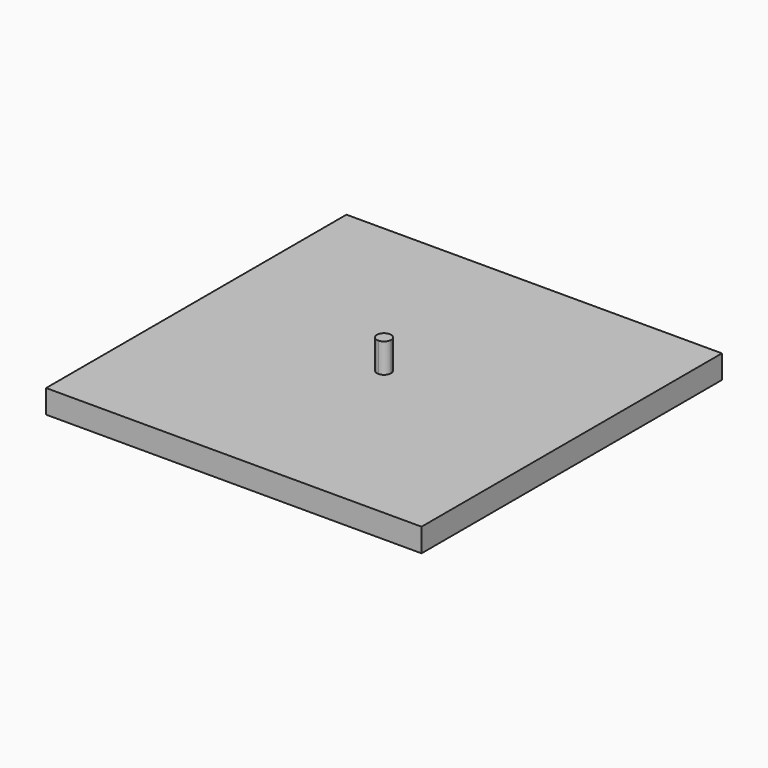
from build123d import *

# Parameters (mm, degrees)
F0_W     = 320
F0_H     = 320
F1_DEPTH = 20
F3_DEPTH = 25


with BuildPart() as f1:
    # F0 (on Top) → F1 (new body)
    with BuildSketch(Plane.XY):
        Rectangle(F0_W, F0_H)
    extrude(amount=F1_DEPTH)

    # F2 (on face) → F3 (join)
    with BuildSketch(Plane.XY.offset(20)):
        with BuildLine():
            ThreePointArc((6, 0), (-4.242641, 4.242641), (0, -6))
            ThreePointArc((0, -6), (4.242641, -4.242641), (6, 0))
        make_face()
    extrude(amount=F3_DEPTH)


solid = f1.part
